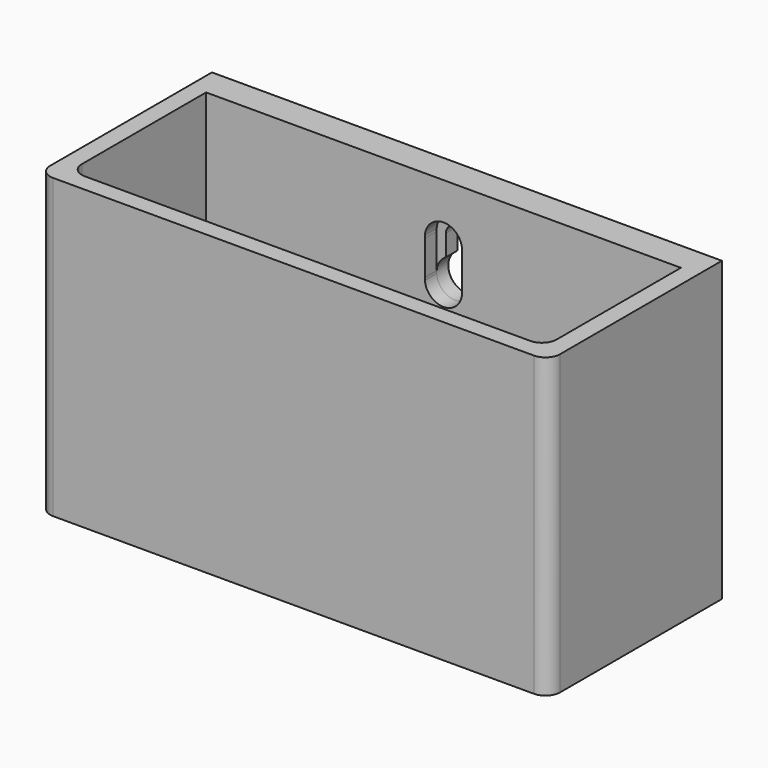
from build123d import *

# Parameters (mm, degrees)
F0_W     = 87
F0_H     = 37
F1_DEPTH = 50.8
F2_W     = 81
F2_H     = 29
F3_DEPTH = 47.625
F4_R     = 2.5
F6_DEPTH = 2.5
F8_DEPTH = 25.4


with BuildPart() as f1:
    # F0 (on Top) → F1 (new body)
    with BuildSketch(Plane.XY):
        Rectangle(F0_W, F0_H)
    extrude(amount=F1_DEPTH)

    # F2 (on face) → F3 (cut)
    with BuildSketch(Plane.XY.offset(50.8)):
        with Locations((0, -1)):
            Rectangle(F2_W, F2_H)
    extrude(amount=-F3_DEPTH, mode=Mode.SUBTRACT)

    # F4
    f4_edges = [f1.edges().sort_by_distance(p)[0] for p in [
        (43.5, -18.5, 25.4),
        (-43.5, -18.5, 25.4),
        (-40.5, -15.5, 26.9875),
        (40.5, -15.5, 26.9875),
    ]]
    fillet(f4_edges, radius=F4_R)

    # F5 (on face) → F6 (cut)
    with BuildSketch(Plane.XZ.offset(-13.5)):
        with BuildLine():
            Line((3.166904, 35.151597), (3.166904, 41.048403))
            ThreePointArc((3.166904, 41.048403), (0.226597, 44.441904), (-3.166904, 41.501597))
            Line((-3.166904, 41.501597), (-3.166904, 41.048403))
            Line((-3.166904, 41.048403), (-3.166904, 35.151597))
            Line((-3.166904, 35.151597), (-3.166904, 34.698403))
            ThreePointArc((-3.166904, 34.698403), (0, 31.75), (3.166904, 34.698403))
            Line((3.166904, 34.698403), (3.166904, 35.151597))
        make_face()
        with BuildLine():
            Line((-3.166904, 41.048403), (-3.166904, 41.501597))
            ThreePointArc((-3.166904, 41.501597), (-3.175, 41.275), (-3.166904, 41.048403))
        make_face()
        with BuildLine():
            ThreePointArc((3.166904, 34.698403), (3.175, 34.925), (3.166904, 35.151597))
            Line((3.166904, 35.151597), (3.166904, 34.698403))
        make_face()
        with BuildLine():
            Line((-3.166904, 34.698403), (-3.166904, 35.151597))
            ThreePointArc((-3.166904, 35.151597), (-3.175, 34.925), (-3.166904, 34.698403))
        make_face()
    extrude(amount=-F6_DEPTH, mode=Mode.SUBTRACT)

    # F7 (on Front) → F8 (cut)
    with BuildSketch(Plane.XZ):
        with BuildLine():
            Line((-1.5875, 41.275), (-1.5875, 37.674631))
            ThreePointArc((-1.5875, 37.674631), (0, 31.75), (1.5875, 37.674631))
            Line((1.5875, 37.674631), (1.5875, 41.275))
            ThreePointArc((1.5875, 41.275), (0, 42.8625), (-1.5875, 41.275))
        make_face()
    extrude(amount=-F8_DEPTH, mode=Mode.SUBTRACT)


solid = f1.part
